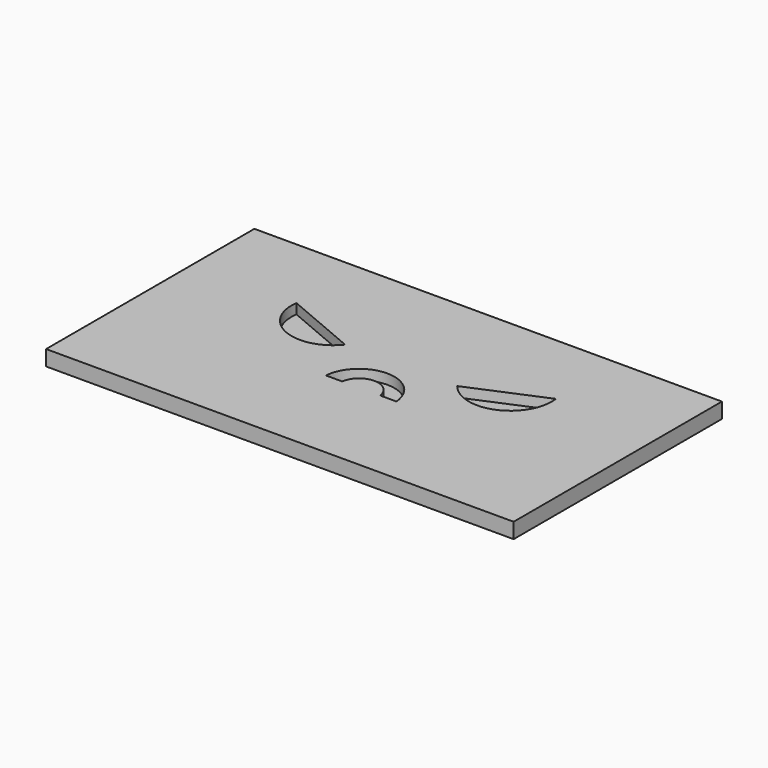
from build123d import *

# Parameters (mm, degrees)
F0_W     = 177.981766
F0_H     = 99.11192
F1_DEPTH = 3.81
F2_W     = 177.981766
F2_H     = 99.11192
F3_DEPTH = 2.032


with BuildPart() as f1:
    # F0 (on Top) → F1 (new body)
    with BuildSketch(Plane.XY):
        with Locations((88.990883, 49.55596)):
            Rectangle(F0_W, F0_H)
        with BuildLine():
            ThreePointArc((75.582939, 38.684514), (88.990883, 51.130303), (102.398827, 38.684514))
            Line((102.398827, 38.684514), (96.218778, 38.684514))
            ThreePointArc((96.218778, 38.684514), (88.990883, 44.981823), (81.762988, 38.684514))
            Line((81.762988, 38.684514), (75.582939, 38.684514))
        make_face(mode=Mode.SUBTRACT)
        with BuildLine():
            Line((39.573743, 69.628693), (67.657165, 57.730189))
            ThreePointArc((67.657165, 57.730189), (49.076194, 52.965662), (39.573743, 69.628693))
        make_face(mode=Mode.SUBTRACT)
        with BuildLine():
            ThreePointArc((138.408024, 69.628693), (128.905572, 52.965662), (110.324601, 57.730189))
            Line((110.324601, 57.730189), (138.408024, 69.628693))
        make_face(mode=Mode.SUBTRACT)
    extrude(amount=F1_DEPTH)

    # F2 (on face) → F3 (join)
    with BuildSketch(Plane(origin=(0, 0, 0), x_dir=(1, 0, 0), z_dir=(0, 0, -1))):
        with Locations((88.990883, -49.55596)):
            Rectangle(F2_W, F2_H)
    extrude(amount=F3_DEPTH)


solid = f1.part
